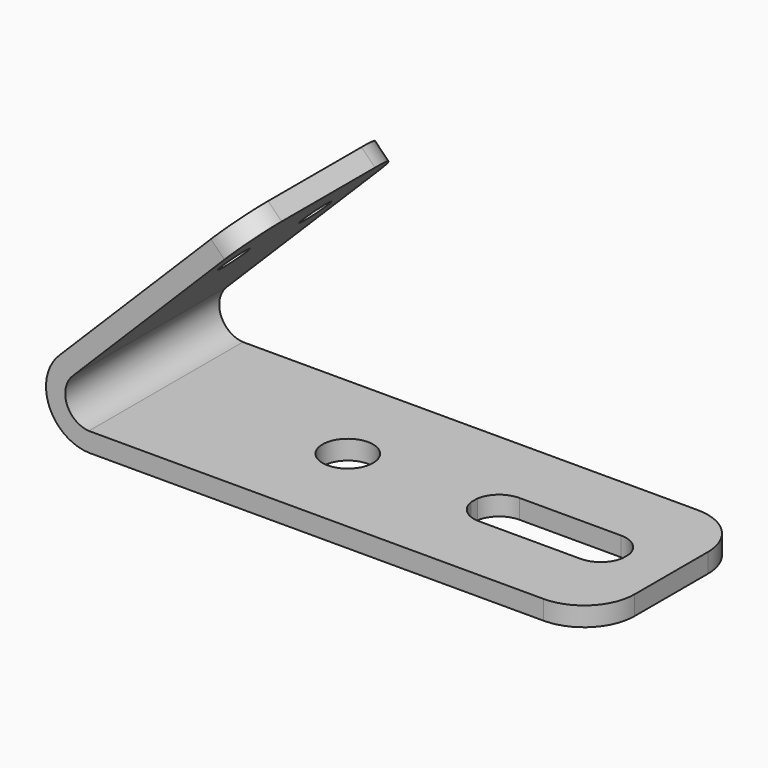
from build123d import *

# Parameters (mm, degrees)
F0_W     = 1270
F0_H     = 48.26
F1_DEPTH = 483.87
F3_DEPTH = 61.468
F4_R     = 63.5
F5_DEPTH = 48.261


with BuildPart() as f1:
    # F0 (on Front) → F1 (new body)
    with BuildSketch(Plane.XZ):
        Polygon((-709.9384124679, 166.5814684317), (-675.8134392078, 132.4564951716), (-226.8006331543, 581.4693012251), (-260.9256064144, 615.5942744851), align=None)
        with BuildLine():
            Line((-635, -24.13), (-635, 24.13))
            ThreePointArc((-635, 24.13), (-690.3423701248, 65.1307793783), (-675.8134392078, 132.4564951716))
            Line((-675.8134392078, 132.4564951716), (-709.9384124679, 166.5814684317))
            ThreePointArc((-709.9384124679, 166.5814684317), (-734.9299659995, 46.6823220296), (-635, -24.13))
        make_face()
        Rectangle(F0_W, F0_H)
    extrude(amount=F1_DEPTH)

    # F2 (on face) → F3 (cut)
    with BuildSketch(Plane(origin=(-438.2599404498, 0, 438.2599404498), x_dir=(0, -1, 0), z_dir=(-0.7071067812, 0, 0.7071067812))):
        with BuildLine():
            Line((483.87, 250.7886202672), (388.62, 250.7886202672))
            ThreePointArc((388.62, 250.7886202672), (455.971920908, 222.8905411752), (483.87, 155.5386202672))
            Line((483.87, 155.5386202672), (483.87, 250.7886202672))
        make_face()
        with BuildLine():
            ThreePointArc((0, 155.5386202672), (27.898079092, 222.8905411752), (95.25, 250.7886202672))
            Line((95.25, 250.7886202672), (0, 250.7886202672))
            Line((0, 250.7886202672), (0, 155.5386202672))
        make_face()
        with BuildLine():
            ThreePointArc((152.4, 60.2886202672), (151.4605170667, 68.6973045482), (148.6884004547, 76.6913003581))
            ThreePointArc((148.6884004547, 76.6913003581), (113.9300618719, 62.1383109076), (76.2481380068, 62.2032478686))
            ThreePointArc((76.2481380068, 62.2032478686), (113.3423836729, 22.2006566701), (152.4, 60.2886202672))
        make_face()
        with BuildLine():
            ThreePointArc((76.2481380068, 62.2032478686), (113.9300618719, 62.1383109076), (148.6884004547, 76.6913003581))
            ThreePointArc((148.6884004547, 76.6913003581), (106.8279752512, 97.648744011), (76.2481380068, 62.2032478686))
        make_face()
        with BuildLine():
            ThreePointArc((407.6218619932, 62.2032478686), (369.9399381281, 62.1383109076), (335.1815995453, 76.6913003581))
            ThreePointArc((335.1815995453, 76.6913003581), (361.161315719, 23.1281032005), (407.67, 60.2886202672))
            ThreePointArc((407.67, 60.2886202672), (407.657963597, 61.2462365943), (407.6218619932, 62.2032478686))
        make_face()
        with BuildLine():
            ThreePointArc((407.6218619932, 62.2032478686), (377.0420247488, 97.648744011), (335.1815995453, 76.6913003581))
            ThreePointArc((335.1815995453, 76.6913003581), (369.9399381281, 62.1383109076), (407.6218619932, 62.2032478686))
        make_face()
    extrude(amount=-F3_DEPTH, mode=Mode.SUBTRACT)

    # F4 (on face) → F5 (cut, through all)
    with BuildSketch(Plane.XY.offset(24.13)):
        with BuildLine():
            ThreePointArc((520.7, -231.961198046), (499.2126410858, -193.6360019562), (457.9881727695, -178.435))
            Line((457.9881727695, -178.435), (391.8817810376, -178.435))
            Line((391.8817810376, -178.435), (202.4118272305, -178.435))
            ThreePointArc((202.4118272305, -178.435), (161.1873589142, -193.6360019562), (139.7, -231.961198046))
            Line((139.7, -231.961198046), (139.7, -251.908801954))
            ThreePointArc((139.7, -251.908801954), (161.1873589142, -290.2339980438), (202.4118272305, -305.435))
            Line((202.4118272305, -305.435), (391.8817810376, -305.435))
            Line((391.8817810376, -305.435), (457.9881727695, -305.435))
            ThreePointArc((457.9881727695, -305.435), (499.2126410858, -290.2339980438), (520.7, -251.908801954))
            Line((520.7, -251.908801954), (520.7, -231.961198046))
        make_face()
        with Locations((-177.8, -241.935)):
            Circle(F4_R)
        with BuildLine():
            Line((635, 0), (507.9999999637, 0))
            ThreePointArc((507.9999999637, 0), (597.8025611979, -37.1974387765), (635, -127))
            Line((635, -127), (635, 0))
        make_face()
        with BuildLine():
            Line((635, -483.87), (635, -356.87))
            ThreePointArc((635, -356.87), (597.8025613867, -446.6725610346), (508.0000004979, -483.87))
            Line((508.0000004979, -483.87), (635, -483.87))
        make_face()
    extrude(amount=-F5_DEPTH, mode=Mode.SUBTRACT)


solid = f1.part
